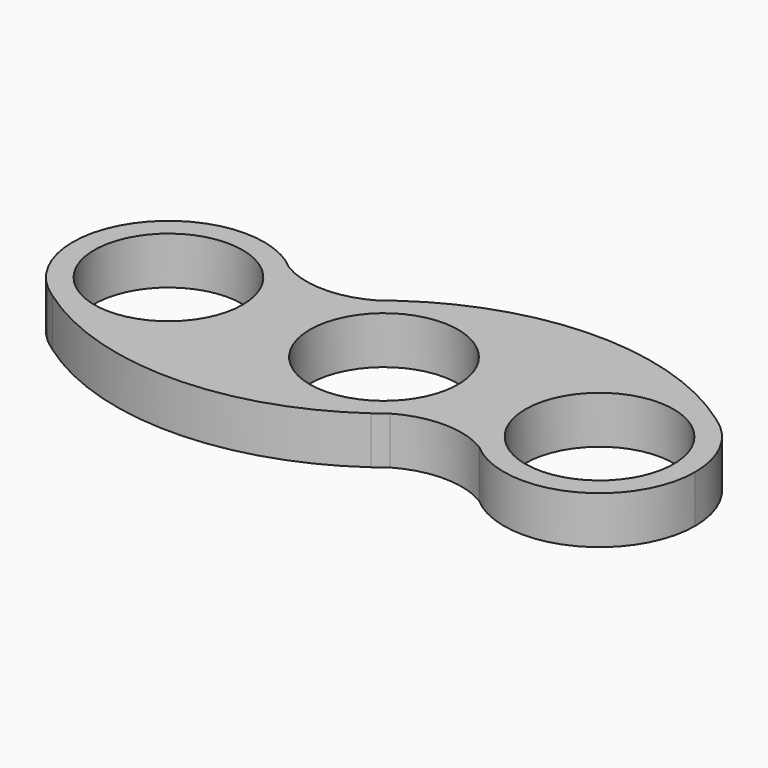
from build123d import *

# Parameters (mm, degrees)
F0_R     = 10.922
F1_DEPTH = 7


with BuildPart() as f1:
    # F0 (on Top) → F1 (new body)
    with BuildSketch(Plane.XY):
        with BuildLine():
            ThreePointArc((-39.3408468404, -11.8787395478), (-24.9781006693, -12.3639309467), (-17.653, 0))
            ThreePointArc((-17.653, 0), (-18.8994874853, 5.7956653725), (-22.4185156572, 10.5664))
            ThreePointArc((-22.4185156572, 10.5664), (-42.3164, 9.3314843428), (-41.0814843428, -10.5664))
            ThreePointArc((-41.0814843428, -10.5664), (-40.2200100529, -11.2343007326), (-39.3408468404, -11.8787395478))
        make_face()
        with Locations((-31.75, 0)):
            Circle(F0_R, mode=Mode.SUBTRACT)
        with BuildLine():
            Line((-17.653, 0), (-14.097, 0))
            ThreePointArc((-14.097, 0), (-12.848539058, 5.800039058), (-9.324289058, 10.57275))
            ThreePointArc((-9.324289058, 10.57275), (-15.8705493616, 8.8106264002), (-22.4185156572, 10.5664))
            ThreePointArc((-22.4185156572, 10.5664), (-18.8994874853, 5.7956653725), (-17.653, 0))
        make_face()
        with BuildLine():
            ThreePointArc((7.5908468404, -11.8787395478), (-6.7718993307, -12.3639309467), (-14.097, 0))
            Line((-14.097, 0), (-17.653, 0))
            ThreePointArc((-17.653, 0), (-24.9781006693, -12.3639309467), (-39.3408468404, -11.8787395478))
            ThreePointArc((-39.3408468404, -11.8787395478), (-15.875, -19.383375), (7.5908468404, -11.8787395478))
        make_face()
        with BuildLine():
            Line((14.097, 0), (10.922, 0))
            ThreePointArc((10.922, 0), (0, -10.922), (-10.922, 0))
            Line((-10.922, 0), (-14.097, 0))
            ThreePointArc((-14.097, 0), (-6.7718993307, -12.3639309467), (7.5908468404, -11.8787395478))
            ThreePointArc((7.5908468404, -11.8787395478), (8.4700100529, -11.2343007326), (9.3314843428, -10.5664))
            ThreePointArc((9.3314843428, -10.5664), (12.8505125147, -5.7956653725), (14.097, 0))
        make_face()
        with BuildLine():
            ThreePointArc((-10.922, 0), (0, 10.922), (10.922, 0))
            Line((10.922, 0), (14.097, 0))
            ThreePointArc((14.097, 0), (6.7722595018, 12.3637336691), (-7.5901547478, 11.879181786))
            ThreePointArc((-7.5901547478, 11.879181786), (-8.4659884875, 11.2376025013), (-9.324289058, 10.57275))
            ThreePointArc((-9.324289058, 10.57275), (-12.848539058, 5.800039058), (-14.097, 0))
            Line((-14.097, 0), (-10.922, 0))
        make_face()
        with BuildLine():
            ThreePointArc((-7.5901547478, 11.879181786), (6.7722595018, 12.3637336691), (14.097, 0))
            Line((14.097, 0), (17.653, 0))
            ThreePointArc((17.653, 0), (24.9738232973, 12.3615872077), (39.3326252102, 11.8839893942))
            ThreePointArc((39.3326252102, 11.8839893942), (15.8704669391, 19.3801997895), (-7.5901547478, 11.879181786))
        make_face()
        with BuildLine():
            Line((17.653, 0), (14.097, 0))
            ThreePointArc((14.097, 0), (12.8505125147, -5.7956653725), (9.3314843428, -10.5664))
            ThreePointArc((9.3314843428, -10.5664), (15.875, -8.8138), (22.4185156572, -10.5664))
            ThreePointArc((22.4185156572, -10.5664), (18.8994874853, -5.7956653725), (17.653, 0))
        make_face()
        with BuildLine():
            ThreePointArc((39.3326252102, 11.8839893942), (24.9738232973, 12.3615872077), (17.653, 0))
            ThreePointArc((17.653, 0), (18.8994874853, -5.7956653725), (22.4185156572, -10.5664))
            ThreePointArc((22.4185156572, -10.5664), (37.5456653725, -12.8505125147), (45.847, 0))
            ThreePointArc((45.847, 0), (44.6005125147, 5.7956653725), (41.0814843428, 10.5664))
            ThreePointArc((41.0814843428, 10.5664), (40.2159714919, 11.2370300074), (39.3326252102, 11.8839893942))
        make_face()
        with BuildLine():
            ThreePointArc((42.672, 0), (31.75, -10.922), (20.828, 0))
            ThreePointArc((20.828, 0), (31.75, 10.922), (42.672, 0))
        make_face(mode=Mode.SUBTRACT)
    extrude(amount=F1_DEPTH)


solid = f1.part
